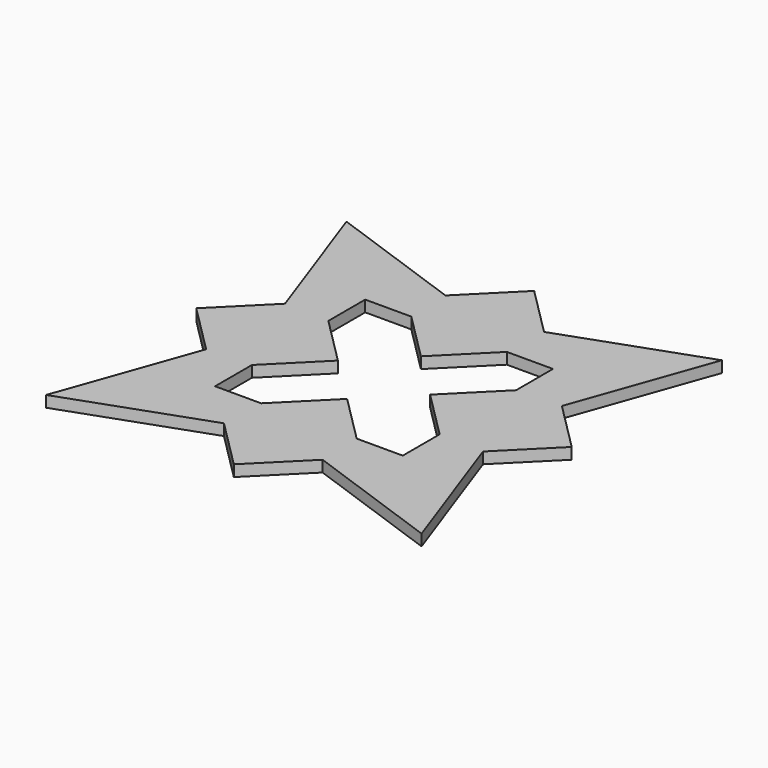
from build123d import *

# Parameters (mm, degrees)
F1_DEPTH = 3


with BuildPart() as f1:
    # F0 (on Top) → F1 (new body)
    with BuildSketch(Plane.XY):
        Polygon((-50, 50), (-25, 25), (-13.133073, 36.866927), align=None)
        Polygon((-36.866927, 13.133073), (-25, 25), (-50, 50), align=None)
        Polygon((-13.133073, 36.866927), (-25, 25), (-12.723302, 25), (-1.266147, 25), align=None)
        Polygon((12.723302, 25), (25, 25), (13.133073, 36.866927), (1.266147, 25), align=None)
        Polygon((25, 25), (50, 50), (13.133073, 36.866927), align=None)
        Polygon((36.866927, 13.133073), (50, 50), (25, 25), align=None)
        Polygon((25, 1.266147), (36.866927, 13.133073), (25, 25), (25, 12.723302), align=None)
        Polygon((12.276698, 0), (25, 0), (25, 1.266147), (25, 12.723302), align=None)
        Polygon((25, -1.266147), (25, 0), (12.276698, 0), (25, -12.723302), align=None)
        Polygon((25, -12.723302), (25, -25), (36.866927, -13.133073), (25, -1.266147), align=None)
        Polygon((25, -25), (50, -50), (36.866927, -13.133073), align=None)
        Polygon((13.133073, -36.866927), (50, -50), (25, -25), align=None)
        Polygon((13.133073, -36.866927), (25, -25), (12.723302, -25), (1.266147, -25), align=None)
        Polygon((-25, -25), (-13.133073, -36.866927), (-1.266147, -25), (-12.723302, -25), align=None)
        Polygon((-1.266147, -25), (0, -25), (0, -12.276698), (-12.723302, -25), align=None)
        Polygon((0, -12.276698), (0, -25), (1.266147, -25), (12.723302, -25), align=None)
        Polygon((-36.866927, -13.133073), (-50, -50), (-25, -25), align=None)
        Polygon((-36.866927, -13.133073), (-25, -25), (-25, -12.723302), (-25, -1.266147), align=None)
        Polygon((-25, -12.723302), (-12.276698, 0), (-25, 0), (-25, -1.266147), align=None)
        Polygon((-25, 0), (-12.276698, 0), (-25, 12.723302), (-25, 1.266147), align=None)
        Polygon((-25, 12.723302), (-25, 25), (-36.866927, 13.133073), (-25, 1.266147), align=None)
        Polygon((-25, -25), (-50, -50), (-13.133073, -36.866927), align=None)
        Polygon((-25, 0), (-50, 0), (-36.866927, -13.133073), (-25, -1.266147), align=None)
        Polygon((-36.866927, 13.133073), (-50, 0), (-25, 0), (-25, 1.266147), align=None)
        Polygon((0, 25), (0, 50), (-13.133073, 36.866927), (-1.266147, 25), align=None)
        Polygon((13.133073, 36.866927), (0, 50), (0, 25), (1.266147, 25), align=None)
        Polygon((25, 0), (50, 0), (36.866927, 13.133073), (25, 1.266147), align=None)
        Polygon((36.866927, -13.133073), (50, 0), (25, 0), (25, -1.266147), align=None)
        Polygon((0, -25), (0, -50), (13.133073, -36.866927), (1.266147, -25), align=None)
        Polygon((-13.133073, -36.866927), (0, -50), (0, -25), (-1.266147, -25), align=None)
        Polygon((-12.723302, 25), (0, 12.276698), (0, 25), (-1.266147, 25), align=None)
        Polygon((0, 25), (0, 12.276698), (12.723302, 25), (1.266147, 25), align=None)
    extrude(amount=F1_DEPTH)


solid = f1.part
